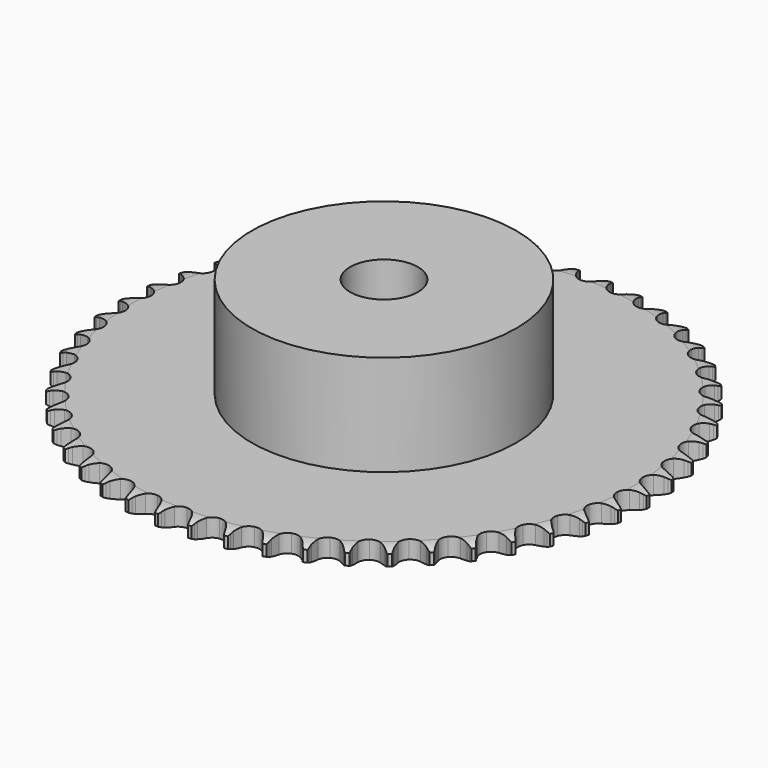
from build123d import *

# Parameters (mm, degrees)
PAD_DEPTH         = 5.3
SKETCH001_R       = 39
PAD001_DEPTH      = 35
SKETCH002_R       = 10
POCKET_DEPTH      = 0.001
POCKET_DEPTH_BACK = 35.001


with BuildPart() as part:
    # Sprocket → Pad (new body)
    with BuildSketch(Plane.XY):
        with BuildLine():
            ThreePointArc((-4.942228, 78.554462), (-4.426125, 77.806882), (-4.050562, 76.979723))
            Line((-4.050562, 76.979723), (-3.741701, 76.098741))
            ThreePointArc((-3.741701, 76.098741), (-3.253306, 74.977651), (-2.605655, 73.940386))
            ThreePointArc((-2.605655, 73.940386), (-1.4609, 72.967845), (0, 72.618462))
            ThreePointArc((0, 72.618462), (1.4609, 72.967845), (2.605655, 73.940386))
            ThreePointArc((2.605655, 73.940386), (3.253306, 74.977651), (3.741701, 76.098741))
            Line((3.741701, 76.098741), (4.050562, 76.979723))
            ThreePointArc((4.050562, 76.979723), (4.426125, 77.806882), (4.942228, 78.554462))
            ThreePointArc((4.942228, 78.554462), (5.360565, 77.748092), (5.629496, 76.880385))
            Line((5.629496, 76.880385), (5.825505, 75.967639))
            ThreePointArc((5.825505, 75.967639), (6.169538, 74.794178), (6.682079, 73.68392))
            ThreePointArc((6.682079, 73.68392), (7.695915, 72.575572), (9.101507, 72.045844))
            ThreePointArc((9.101507, 72.045844), (10.594677, 72.209373), (11.852296, 73.030769))
            Line((11.852296, 73.030769), (13.249898, 75.02972))
            ThreePointArc((13.249898, 75.02972), (13.446578, 75.453242), (13.66674, 75.865045))
            ThreePointArc((13.66674, 75.865045), (14.143012, 76.638611), (14.748742, 77.315611))
            ThreePointArc((14.748742, 77.315611), (15.062715, 76.463168), (15.220773, 75.568598))
            Line((15.220773, 75.568598), (15.300839, 74.638482))
            ThreePointArc((15.300839, 74.638482), (15.495086, 73.431155), (15.864433, 72.265413))
            ThreePointArc((15.864433, 72.265413), (16.731362, 71.038738), (18.059477, 70.33702))
            ThreePointArc((18.059477, 70.33702), (19.561369, 70.312115), (20.91202, 70.969413))
            Line((20.91202, 70.969413), (22.549136, 72.777436))
            ThreePointArc((22.549136, 72.777436), (22.797346, 73.172967), (23.067385, 73.55393))
            ThreePointArc((23.067385, 73.55393), (23.636855, 74.261703), (24.322659, 74.857447))
            ThreePointArc((24.322659, 74.857447), (24.527317, 73.972374), (24.572009, 73.065048))
            Line((24.572009, 73.065048), (24.534869, 72.132232))
            ThreePointArc((24.534869, 72.132232), (24.576267, 70.910079), (24.796595, 69.707238))
            ThreePointArc((24.796595, 69.707238), (25.502945, 68.38158), (26.732639, 67.518939))
            ThreePointArc((26.732639, 67.518939), (28.219566, 67.305994), (29.641948, 67.788827))
            Line((29.641948, 67.788827), (31.492761, 69.377408))
            ThreePointArc((31.492761, 69.377408), (31.788587, 69.738711), (32.104243, 70.082825))
            ThreePointArc((32.104243, 70.082825), (32.75793, 70.713644), (33.512993, 71.218736))
            ThreePointArc((33.512993, 71.218736), (33.605108, 70.314992), (33.53573, 69.409219))
            Line((33.53573, 69.409219), (33.381971, 68.488413))
            ThreePointArc((33.381971, 68.488413), (33.269865, 67.270709), (33.3377, 66.049738))
            ThreePointArc((33.3377, 66.049738), (33.872331, 64.646005), (34.984211, 63.636044))
            ThreePointArc((34.984211, 63.636044), (36.432724, 63.238416), (37.904405, 63.539171))
            Line((37.904405, 63.539171), (39.939726, 64.883257))
            ThreePointArc((39.939726, 64.883257), (40.278503, 65.204634), (40.634799, 65.506473))
            ThreePointArc((40.634799, 65.506473), (41.362394, 66.050388), (42.174808, 66.456863))
            ThreePointArc((42.174808, 66.456863), (42.152927, 65.5487), (41.970573, 64.658765))
            Line((41.970573, 64.658765), (41.702618, 63.764492))
            ThreePointArc((41.702618, 63.764492), (41.438778, 62.57044), (41.35305, 61.350595))
            ThreePointArc((41.35305, 61.350595), (41.70753, 59.890923), (42.684061, 58.74957))
            ThreePointArc((42.684061, 58.74957), (44.071317, 58.173531), (45.569088, 58.287464))
            Line((45.569088, 58.287464), (47.756817, 59.365858))
            ThreePointArc((47.756817, 59.365858), (48.133202, 59.642241), (48.52452, 59.897044))
            ThreePointArc((48.52452, 59.897044), (49.314548, 60.345479), (50.1715, 60.646926))
            ThreePointArc((50.1715, 60.646926), (50.03597, 59.748667), (49.743514, 58.888604))
            Line((49.743514, 58.888604), (49.36559, 58.034966))
            ThreePointArc((49.36559, 58.034966), (48.954176, 56.883397), (48.716237, 55.683915))
            ThreePointArc((48.716237, 55.683915), (48.884977, 54.191325), (49.710758, 52.936581))
            ThreePointArc((49.710758, 52.936581), (51.014878, 52.191215), (52.515118, 52.116529))
            Line((52.515118, 52.116529), (54.820756, 52.912224))
            ThreePointArc((54.820756, 52.912224), (55.228813, 53.139255), (55.648979, 53.343003))
            ThreePointArc((55.648979, 53.343003), (56.488982, 53.688885), (57.376959, 53.88055))
            ThreePointArc((57.376959, 53.88055), (57.129915, 53.006361), (56.731971, 52.189734))
            Line((56.731971, 52.189734), (56.250038, 51.390193))
            ThreePointArc((56.250038, 51.390193), (55.697538, 50.299269), (55.31114, 49.139068))
            ThreePointArc((55.31114, 49.139068), (55.291478, 47.637098), (55.953487, 46.28875))
            ThreePointArc((55.953487, 46.28875), (57.153904, 45.385812), (58.632954, 45.123685))
            Line((58.632954, 45.123685), (61.020138, 45.624133))
            ThreePointArc((61.020138, 45.624133), (61.453432, 45.79823), (61.895822, 45.947711))
            ThreePointArc((61.895822, 45.947711), (62.772551, 46.185585), (63.677548, 46.264446))
            ThreePointArc((63.677548, 46.264446), (63.322887, 45.428113), (62.825731, 44.667801))
            Line((62.825731, 44.667801), (62.247389, 43.934967))
            ThreePointArc((62.247389, 43.934967), (61.562516, 42.921892), (61.033754, 41.819267))
            ThreePointArc((61.033754, 41.819267), (60.826, 40.331606), (61.313796, 38.910918))
            ThreePointArc((61.313796, 38.910918), (62.391579, 37.864648), (63.826113, 37.419213))
            Line((63.826113, 37.419213), (66.257196, 37.616522))
            ThreePointArc((66.257196, 37.616522), (66.708893, 37.73494), (67.16653, 37.827796))
            ThreePointArc((67.16653, 37.827796), (68.066159, 37.953911), (68.973904, 37.918725))
            ThreePointArc((68.973904, 37.918725), (68.517219, 37.133436), (67.928691, 36.44143))
            Line((67.928691, 36.44143), (67.263061, 35.78686))
            ThreePointArc((67.263061, 35.78686), (66.456617, 34.867611), (65.793828, 33.839952))
            ThreePointArc((65.793828, 33.839952), (65.401259, 32.39006), (65.707149, 30.919437))
            ThreePointArc((65.707149, 30.919437), (66.645302, 29.746335), (68.012696, 29.124619))
            Line((68.012696, 29.124619), (70.449338, 29.015676))
            ThreePointArc((70.449338, 29.015676), (70.912316, 29.076547), (71.377982, 29.111314))
            ThreePointArc((71.377982, 29.111314), (72.286324, 29.123682), (73.1825, 28.975002))
            ThreePointArc((73.1825, 28.975002), (72.630994, 28.253144), (71.960375, 27.640356))
            Line((71.960375, 27.640356), (71.217954, 27.074373))
            ThreePointArc((71.217954, 27.074373), (70.302657, 26.263447), (69.516295, 25.326961))
            ThreePointArc((69.516295, 25.326961), (68.945102, 23.937703), (69.064262, 22.440339))
            ThreePointArc((69.064262, 22.440339), (69.847988, 21.158905), (71.126678, 20.370711))
            Line((71.126678, 20.370711), (73.530453, 19.957235))
            ThreePointArc((73.530453, 19.957235), (73.997409, 19.9596), (74.46376, 19.935729))
            ThreePointArc((74.46376, 19.935729), (75.36649, 19.834154), (76.236965, 19.574326))
            ThreePointArc((76.236965, 19.574326), (75.599335, 18.927282), (74.857201, 18.403377))
            Line((74.857201, 18.403377), (74.049698, 17.934907))
            ThreePointArc((74.049698, 17.934907), (73.039982, 17.245092), (72.142448, 16.414548))
            ThreePointArc((72.142448, 16.414548), (71.401639, 15.107835), (71.33219, 13.607343))
            ThreePointArc((71.33219, 13.607343), (71.94913, 12.237787), (73.11895, 11.295545))
            Line((73.11895, 11.295545), (75.451948, 10.584057))
            ThreePointArc((75.451948, 10.584057), (75.915518, 10.527878), (76.3752, 10.445746))
            ThreePointArc((76.3752, 10.445746), (77.258081, 10.23183), (78.089128, 9.864951))
            ThreePointArc((78.089128, 9.864951), (77.375429, 9.302925), (76.573485, 8.876166))
            Line((76.573485, 8.876166), (75.713634, 8.512597))
            ThreePointArc((75.713634, 8.512597), (74.625423, 7.954772), (73.630872, 7.243268))
            ThreePointArc((73.630872, 7.243268), (72.732129, 6.039707), (72.475166, 4.559751))
            ThreePointArc((72.475166, 4.559751), (72.915591, 3.123671), (73.958092, 2.042242))
            Line((73.958092, 2.042242), (76.183521, 1.043962))
            ThreePointArc((76.183521, 1.043962), (76.636395, 0.930126), (77.082158, 0.791028))
            ThreePointArc((77.082158, 0.791028), (77.931266, 0.468144), (78.709778, 0))
            ThreePointArc((78.709778, 0), (77.931266, -0.468144), (77.082158, -0.791028))
            Line((77.082158, -0.791028), (76.183521, -1.043962))
            ThreePointArc((76.183521, -1.043962), (75.033977, -1.460999), (73.958092, -2.042242))
            ThreePointArc((73.958092, -2.042242), (72.915591, -3.123671), (72.475166, -4.559751))
            ThreePointArc((72.475166, -4.559751), (72.732129, -6.039707), (73.630872, -7.243268))
            Line((73.630872, -7.243268), (75.713634, -8.512597))
            ThreePointArc((75.713634, -8.512597), (76.14867, -8.682296), (76.573485, -8.876166))
            ThreePointArc((76.573485, -8.876166), (77.375429, -9.302925), (78.089128, -9.864951))
            ThreePointArc((78.089128, -9.864951), (77.258081, -10.23183), (76.3752, -10.445746))
            Line((76.3752, -10.445746), (75.451948, -10.584057))
            ThreePointArc((75.451948, -10.584057), (74.2592, -10.853729), (73.11895, -11.295545))
            ThreePointArc((73.11895, -11.295545), (71.94913, -12.237787), (71.33219, -13.607343))
            ThreePointArc((71.33219, -13.607343), (71.401639, -15.107835), (72.142448, -16.414548))
            Line((72.142448, -16.414548), (74.049698, -17.934907))
            ThreePointArc((74.049698, -17.934907), (74.460034, -18.157792), (74.857201, -18.403377))
            ThreePointArc((74.857201, -18.403377), (75.599335, -18.927282), (76.236965, -19.574326))
            ThreePointArc((76.236965, -19.574326), (75.36649, -19.834154), (74.46376, -19.935729))
            Line((74.46376, -19.935729), (73.530453, -19.957235))
            ThreePointArc((73.530453, -19.957235), (72.313311, -20.07529), (71.126678, -20.370711))
            ThreePointArc((71.126678, -20.370711), (69.847988, -21.158905), (69.064262, -22.440339))
            ThreePointArc((69.064262, -22.440339), (68.945102, -23.937703), (69.516295, -25.326961))
            Line((69.516295, -25.326961), (71.217954, -27.074373))
            ThreePointArc((71.217954, -27.074373), (71.59712, -27.34693), (71.960375, -27.640356))
            ThreePointArc((71.960375, -27.640356), (72.630994, -28.253144), (73.1825, -28.975002))
            ThreePointArc((73.1825, -28.975002), (72.286324, -29.123682), (71.377982, -29.111314))
            Line((71.377982, -29.111314), (70.449338, -29.015676))
            ThreePointArc((70.449338, -29.015676), (69.226998, -28.980252), (68.012696, -29.124619))
            ThreePointArc((68.012696, -29.124619), (66.645302, -29.746335), (65.707149, -30.919437))
            ThreePointArc((65.707149, -30.919437), (65.401259, -32.39006), (65.793828, -33.839952))
            Line((65.793828, -33.839952), (67.263061, -35.78686))
            ThreePointArc((67.263061, -35.78686), (67.605076, -36.104789), (67.928691, -36.44143))
            ThreePointArc((67.928691, -36.44143), (68.517219, -37.133436), (68.973904, -37.918725))
            ThreePointArc((68.973904, -37.918725), (68.066159, -37.953911), (67.16653, -37.827796))
            Line((67.16653, -37.827796), (66.257196, -37.616522))
            ThreePointArc((66.257196, -37.616522), (65.048934, -37.428177), (63.826113, -37.419213))
            ThreePointArc((63.826113, -37.419213), (62.391579, -37.864648), (61.313796, -38.910918))
            ThreePointArc((61.313796, -38.910918), (60.826, -40.331606), (61.033754, -41.819267))
            Line((61.033754, -41.819267), (62.247389, -43.934967))
            ThreePointArc((62.247389, -43.934967), (62.54686, -44.293255), (62.825731, -44.667801))
            ThreePointArc((62.825731, -44.667801), (63.322887, -45.428113), (63.677548, -46.264446))
            ThreePointArc((63.677548, -46.264446), (62.772551, -46.185585), (61.895822, -45.947711))
            Line((61.895822, -45.947711), (61.020138, -45.624133))
            ThreePointArc((61.020138, -45.624133), (59.845009, -45.285838), (58.632954, -45.123685))
            ThreePointArc((58.632954, -45.123685), (57.153904, -45.385812), (55.953487, -46.28875))
            ThreePointArc((55.953487, -46.28875), (55.291478, -47.637098), (55.31114, -49.139068))
            Line((55.31114, -49.139068), (56.250038, -51.390193))
            ThreePointArc((56.250038, -51.390193), (56.502242, -51.78319), (56.731971, -52.189734))
            ThreePointArc((56.731971, -52.189734), (57.129915, -53.006361), (57.376959, -53.88055))
            ThreePointArc((57.376959, -53.88055), (56.488982, -53.688885), (55.648979, -53.343003))
            Line((55.648979, -53.343003), (54.820756, -52.912224))
            ThreePointArc((54.820756, -52.912224), (53.697293, -52.429314), (52.515118, -52.116529))
            ThreePointArc((52.515118, -52.116529), (51.014878, -52.191215), (49.710758, -52.936581))
            ThreePointArc((49.710758, -52.936581), (48.884977, -54.191325), (48.716237, -55.683915))
            Line((48.716237, -55.683915), (49.36559, -58.034966))
            ThreePointArc((49.36559, -58.034966), (49.566551, -58.456473), (49.743514, -58.888604))
            ThreePointArc((49.743514, -58.888604), (50.03597, -59.748667), (50.1715, -60.646926))
            ThreePointArc((50.1715, -60.646926), (49.314548, -60.345479), (48.52452, -59.897044))
            Line((48.52452, -59.897044), (47.756817, -59.365858))
            ThreePointArc((47.756817, -59.365858), (46.702738, -58.745949), (45.569088, -58.287464))
            ThreePointArc((45.569088, -58.287464), (44.071317, -58.173531), (42.684061, -58.74957))
            ThreePointArc((42.684061, -58.74957), (41.70753, -59.890923), (41.35305, -61.350595))
            Line((41.35305, -61.350595), (41.702618, -63.764492))
            ThreePointArc((41.702618, -63.764492), (41.849165, -64.207862), (41.970573, -64.658765))
            ThreePointArc((41.970573, -64.658765), (42.152927, -65.5487), (42.174808, -66.456863))
            ThreePointArc((42.174808, -66.456863), (41.362394, -66.050388), (40.634799, -65.506473))
            Line((40.634799, -65.506473), (39.939726, -64.883257))
            ThreePointArc((39.939726, -64.883257), (38.971653, -64.136124), (37.904405, -63.539171))
            ThreePointArc((37.904405, -63.539171), (36.432724, -63.238416), (34.984211, -63.636044))
            ThreePointArc((34.984211, -63.636044), (33.872331, -64.646005), (33.3377, -66.049738))
            Line((33.3377, -66.049738), (33.381971, -68.488413))
            ThreePointArc((33.381971, -68.488413), (33.471793, -68.946655), (33.53573, -69.409219))
            ThreePointArc((33.53573, -69.409219), (33.605108, -70.314992), (33.512993, -71.218736))
            ThreePointArc((33.512993, -71.218736), (32.75793, -70.713644), (32.104243, -70.082825))
            Line((32.104243, -70.082825), (31.492761, -69.377408))
            ThreePointArc((31.492761, -69.377408), (30.625962, -68.514835), (29.641948, -67.788827))
            ThreePointArc((29.641948, -67.788827), (28.219566, -67.305994), (26.732639, -67.518939))
            ThreePointArc((26.732639, -67.518939), (25.502945, -68.38158), (24.796595, -69.707238))
            Line((24.796595, -69.707238), (24.534869, -72.132232))
            ThreePointArc((24.534869, -72.132232), (24.56655, -72.598118), (24.572009, -73.065048))
            ThreePointArc((24.572009, -73.065048), (24.527317, -73.972374), (24.322659, -74.857447))
            ThreePointArc((24.322659, -74.857447), (23.636855, -74.261703), (23.067385, -73.55393))
            Line((23.067385, -73.55393), (22.549136, -72.777436))
            ThreePointArc((22.549136, -72.777436), (21.797282, -71.813026), (20.91202, -70.969413))
            ThreePointArc((20.91202, -70.969413), (19.561369, -70.312115), (18.059477, -70.33702))
            ThreePointArc((18.059477, -70.33702), (16.731362, -71.038738), (15.864433, -72.265413))
            Line((15.864433, -72.265413), (15.300839, -74.638482))
            ThreePointArc((15.300839, -74.638482), (15.273879, -75.104665), (15.220773, -75.568598))
            ThreePointArc((15.220773, -75.568598), (15.062715, -76.463168), (14.748742, -77.315611))
            ThreePointArc((14.748742, -77.315611), (14.143012, -76.638611), (13.66674, -75.865045))
            Line((13.66674, -75.865045), (13.249898, -75.02972))
            ThreePointArc((13.249898, -75.02972), (12.624845, -73.978683), (11.852296, -73.030769))
            ThreePointArc((11.852296, -73.030769), (10.594677, -72.209373), (9.101507, -72.045844))
            ThreePointArc((9.101507, -72.045844), (7.695915, -72.575572), (6.682079, -73.68392))
            Line((6.682079, -73.68392), (5.825505, -75.967639))
            ThreePointArc((5.825505, -75.967639), (5.740329, -76.426767), (5.629496, -76.880385))
            ThreePointArc((5.629496, -76.880385), (5.360565, -77.748092), (4.942228, -78.554462))
            ThreePointArc((4.942228, -78.554462), (4.426125, -77.806882), (4.050562, -76.979723))
            Line((4.050562, -76.979723), (3.741701, -76.098741))
            ThreePointArc((3.741701, -76.098741), (3.253306, -74.977651), (2.605655, -73.940386))
            ThreePointArc((2.605655, -73.940386), (1.4609, -72.967845), (0, -72.618462))
            ThreePointArc((0, -72.618462), (-1.4609, -72.967845), (-2.605655, -73.940386))
            Line((-2.605655, -73.940386), (-3.741701, -76.098741))
            ThreePointArc((-3.741701, -76.098741), (-3.883749, -76.543573), (-4.050562, -76.979723))
            ThreePointArc((-4.050562, -76.979723), (-4.426125, -77.806882), (-4.942228, -78.554462))
            ThreePointArc((-4.942228, -78.554462), (-5.360565, -77.748092), (-5.629496, -76.880385))
            Line((-5.629496, -76.880385), (-5.825505, -75.967639))
            ThreePointArc((-5.825505, -75.967639), (-6.169538, -74.794178), (-6.682079, -73.68392))
            ThreePointArc((-6.682079, -73.68392), (-7.695915, -72.575572), (-9.101507, -72.045844))
            ThreePointArc((-9.101507, -72.045844), (-10.594677, -72.209373), (-11.852296, -73.030769))
            Line((-11.852296, -73.030769), (-13.249898, -75.02972))
            ThreePointArc((-13.249898, -75.02972), (-13.446578, -75.453242), (-13.66674, -75.865045))
            ThreePointArc((-13.66674, -75.865045), (-14.143012, -76.638611), (-14.748742, -77.315611))
            ThreePointArc((-14.748742, -77.315611), (-15.062715, -76.463168), (-15.220773, -75.568598))
            Line((-15.220773, -75.568598), (-15.300839, -74.638482))
            ThreePointArc((-15.300839, -74.638482), (-15.495086, -73.431155), (-15.864433, -72.265413))
            ThreePointArc((-15.864433, -72.265413), (-16.731362, -71.038738), (-18.059477, -70.33702))
            ThreePointArc((-18.059477, -70.33702), (-19.561369, -70.312115), (-20.91202, -70.969413))
            Line((-20.91202, -70.969413), (-22.549136, -72.777436))
            ThreePointArc((-22.549136, -72.777436), (-22.797346, -73.172967), (-23.067385, -73.55393))
            ThreePointArc((-23.067385, -73.55393), (-23.636855, -74.261703), (-24.322659, -74.857447))
            ThreePointArc((-24.322659, -74.857447), (-24.527317, -73.972374), (-24.572009, -73.065048))
            Line((-24.572009, -73.065048), (-24.534869, -72.132232))
            ThreePointArc((-24.534869, -72.132232), (-24.576267, -70.910079), (-24.796595, -69.707238))
            ThreePointArc((-24.796595, -69.707238), (-25.502945, -68.38158), (-26.732639, -67.518939))
            ThreePointArc((-26.732639, -67.518939), (-28.219566, -67.305994), (-29.641948, -67.788827))
            Line((-29.641948, -67.788827), (-31.492761, -69.377408))
            ThreePointArc((-31.492761, -69.377408), (-31.788587, -69.738711), (-32.104243, -70.082825))
            ThreePointArc((-32.104243, -70.082825), (-32.75793, -70.713644), (-33.512993, -71.218736))
            ThreePointArc((-33.512993, -71.218736), (-33.605108, -70.314992), (-33.53573, -69.409219))
            Line((-33.53573, -69.409219), (-33.381971, -68.488413))
            ThreePointArc((-33.381971, -68.488413), (-33.269865, -67.270709), (-33.3377, -66.049738))
            ThreePointArc((-33.3377, -66.049738), (-33.872331, -64.646005), (-34.984211, -63.636044))
            ThreePointArc((-34.984211, -63.636044), (-36.432724, -63.238416), (-37.904405, -63.539171))
            Line((-37.904405, -63.539171), (-39.939726, -64.883257))
            ThreePointArc((-39.939726, -64.883257), (-40.278503, -65.204634), (-40.634799, -65.506473))
            ThreePointArc((-40.634799, -65.506473), (-41.362394, -66.050388), (-42.174808, -66.456863))
            ThreePointArc((-42.174808, -66.456863), (-42.152927, -65.5487), (-41.970573, -64.658765))
            Line((-41.970573, -64.658765), (-41.702618, -63.764492))
            ThreePointArc((-41.702618, -63.764492), (-41.438778, -62.57044), (-41.35305, -61.350595))
            ThreePointArc((-41.35305, -61.350595), (-41.70753, -59.890923), (-42.684061, -58.74957))
            ThreePointArc((-42.684061, -58.74957), (-44.071317, -58.173531), (-45.569088, -58.287464))
            Line((-45.569088, -58.287464), (-47.756817, -59.365858))
            ThreePointArc((-47.756817, -59.365858), (-48.133202, -59.642241), (-48.52452, -59.897044))
            ThreePointArc((-48.52452, -59.897044), (-49.314548, -60.345479), (-50.1715, -60.646926))
            ThreePointArc((-50.1715, -60.646926), (-50.03597, -59.748667), (-49.743514, -58.888604))
            Line((-49.743514, -58.888604), (-49.36559, -58.034966))
            ThreePointArc((-49.36559, -58.034966), (-48.954176, -56.883397), (-48.716237, -55.683915))
            ThreePointArc((-48.716237, -55.683915), (-48.884977, -54.191325), (-49.710758, -52.936581))
            ThreePointArc((-49.710758, -52.936581), (-51.014878, -52.191215), (-52.515118, -52.116529))
            Line((-52.515118, -52.116529), (-54.820756, -52.912224))
            ThreePointArc((-54.820756, -52.912224), (-55.228813, -53.139255), (-55.648979, -53.343003))
            ThreePointArc((-55.648979, -53.343003), (-56.488982, -53.688885), (-57.376959, -53.88055))
            ThreePointArc((-57.376959, -53.88055), (-57.129915, -53.006361), (-56.731971, -52.189734))
            Line((-56.731971, -52.189734), (-56.250038, -51.390193))
            ThreePointArc((-56.250038, -51.390193), (-55.697538, -50.299269), (-55.31114, -49.139068))
            ThreePointArc((-55.31114, -49.139068), (-55.291478, -47.637098), (-55.953487, -46.28875))
            ThreePointArc((-55.953487, -46.28875), (-57.153904, -45.385812), (-58.632954, -45.123685))
            Line((-58.632954, -45.123685), (-61.020138, -45.624133))
            ThreePointArc((-61.020138, -45.624133), (-61.453432, -45.79823), (-61.895822, -45.947711))
            ThreePointArc((-61.895822, -45.947711), (-62.772551, -46.185585), (-63.677548, -46.264446))
            ThreePointArc((-63.677548, -46.264446), (-63.322887, -45.428113), (-62.825731, -44.667801))
            Line((-62.825731, -44.667801), (-62.247389, -43.934967))
            ThreePointArc((-62.247389, -43.934967), (-61.562516, -42.921892), (-61.033754, -41.819267))
            ThreePointArc((-61.033754, -41.819267), (-60.826, -40.331606), (-61.313796, -38.910918))
            ThreePointArc((-61.313796, -38.910918), (-62.391579, -37.864648), (-63.826113, -37.419213))
            Line((-63.826113, -37.419213), (-66.257196, -37.616522))
            ThreePointArc((-66.257196, -37.616522), (-66.708893, -37.73494), (-67.16653, -37.827796))
            ThreePointArc((-67.16653, -37.827796), (-68.066159, -37.953911), (-68.973904, -37.918725))
            ThreePointArc((-68.973904, -37.918725), (-68.517219, -37.133436), (-67.928691, -36.44143))
            Line((-67.928691, -36.44143), (-67.263061, -35.78686))
            ThreePointArc((-67.263061, -35.78686), (-66.456617, -34.867611), (-65.793828, -33.839952))
            ThreePointArc((-65.793828, -33.839952), (-65.401259, -32.39006), (-65.707149, -30.919437))
            ThreePointArc((-65.707149, -30.919437), (-66.645302, -29.746335), (-68.012696, -29.124619))
            Line((-68.012696, -29.124619), (-70.449338, -29.015676))
            ThreePointArc((-70.449338, -29.015676), (-70.912316, -29.076547), (-71.377982, -29.111314))
            ThreePointArc((-71.377982, -29.111314), (-72.286324, -29.123682), (-73.1825, -28.975002))
            ThreePointArc((-73.1825, -28.975002), (-72.630994, -28.253144), (-71.960375, -27.640356))
            Line((-71.960375, -27.640356), (-71.217954, -27.074373))
            ThreePointArc((-71.217954, -27.074373), (-70.302657, -26.263447), (-69.516295, -25.326961))
            ThreePointArc((-69.516295, -25.326961), (-68.945102, -23.937703), (-69.064262, -22.440339))
            ThreePointArc((-69.064262, -22.440339), (-69.847988, -21.158905), (-71.126678, -20.370711))
            Line((-71.126678, -20.370711), (-73.530453, -19.957235))
            ThreePointArc((-73.530453, -19.957235), (-73.997409, -19.9596), (-74.46376, -19.935729))
            ThreePointArc((-74.46376, -19.935729), (-75.36649, -19.834154), (-76.236965, -19.574326))
            ThreePointArc((-76.236965, -19.574326), (-75.599335, -18.927282), (-74.857201, -18.403377))
            Line((-74.857201, -18.403377), (-74.049698, -17.934907))
            ThreePointArc((-74.049698, -17.934907), (-73.039982, -17.245092), (-72.142448, -16.414548))
            ThreePointArc((-72.142448, -16.414548), (-71.401639, -15.107835), (-71.33219, -13.607343))
            ThreePointArc((-71.33219, -13.607343), (-71.94913, -12.237787), (-73.11895, -11.295545))
            Line((-73.11895, -11.295545), (-75.451948, -10.584057))
            ThreePointArc((-75.451948, -10.584057), (-75.915518, -10.527878), (-76.3752, -10.445746))
            ThreePointArc((-76.3752, -10.445746), (-77.258081, -10.23183), (-78.089128, -9.864951))
            ThreePointArc((-78.089128, -9.864951), (-77.375429, -9.302925), (-76.573485, -8.876166))
            Line((-76.573485, -8.876166), (-75.713634, -8.512597))
            ThreePointArc((-75.713634, -8.512597), (-74.625423, -7.954772), (-73.630872, -7.243268))
            ThreePointArc((-73.630872, -7.243268), (-72.732129, -6.039707), (-72.475166, -4.559751))
            ThreePointArc((-72.475166, -4.559751), (-72.915591, -3.123671), (-73.958092, -2.042242))
            Line((-73.958092, -2.042242), (-76.183521, -1.043962))
            ThreePointArc((-76.183521, -1.043962), (-76.636395, -0.930126), (-77.082158, -0.791028))
            ThreePointArc((-77.082158, -0.791028), (-77.931266, -0.468144), (-78.709778, 0))
            ThreePointArc((-78.709778, 0), (-77.931266, 0.468144), (-77.082158, 0.791028))
            Line((-77.082158, 0.791028), (-76.183521, 1.043962))
            ThreePointArc((-76.183521, 1.043962), (-75.033977, 1.460999), (-73.958092, 2.042242))
            ThreePointArc((-73.958092, 2.042242), (-72.915591, 3.123671), (-72.475166, 4.559751))
            ThreePointArc((-72.475166, 4.559751), (-72.732129, 6.039707), (-73.630872, 7.243268))
            Line((-73.630872, 7.243268), (-75.713634, 8.512597))
            ThreePointArc((-75.713634, 8.512597), (-76.14867, 8.682296), (-76.573485, 8.876166))
            ThreePointArc((-76.573485, 8.876166), (-77.375429, 9.302925), (-78.089128, 9.864951))
            ThreePointArc((-78.089128, 9.864951), (-77.258081, 10.23183), (-76.3752, 10.445746))
            Line((-76.3752, 10.445746), (-75.451948, 10.584057))
            ThreePointArc((-75.451948, 10.584057), (-74.2592, 10.853729), (-73.11895, 11.295545))
            ThreePointArc((-73.11895, 11.295545), (-71.94913, 12.237787), (-71.33219, 13.607343))
            ThreePointArc((-71.33219, 13.607343), (-71.401639, 15.107835), (-72.142448, 16.414548))
            Line((-72.142448, 16.414548), (-74.049698, 17.934907))
            ThreePointArc((-74.049698, 17.934907), (-74.460034, 18.157792), (-74.857201, 18.403377))
            ThreePointArc((-74.857201, 18.403377), (-75.599335, 18.927282), (-76.236965, 19.574326))
            ThreePointArc((-76.236965, 19.574326), (-75.36649, 19.834154), (-74.46376, 19.935729))
            Line((-74.46376, 19.935729), (-73.530453, 19.957235))
            ThreePointArc((-73.530453, 19.957235), (-72.313311, 20.07529), (-71.126678, 20.370711))
            ThreePointArc((-71.126678, 20.370711), (-69.847988, 21.158905), (-69.064262, 22.440339))
            ThreePointArc((-69.064262, 22.440339), (-68.945102, 23.937703), (-69.516295, 25.326961))
            Line((-69.516295, 25.326961), (-71.217954, 27.074373))
            ThreePointArc((-71.217954, 27.074373), (-71.59712, 27.34693), (-71.960375, 27.640356))
            ThreePointArc((-71.960375, 27.640356), (-72.630994, 28.253144), (-73.1825, 28.975002))
            ThreePointArc((-73.1825, 28.975002), (-72.286324, 29.123682), (-71.377982, 29.111314))
            Line((-71.377982, 29.111314), (-70.449338, 29.015676))
            ThreePointArc((-70.449338, 29.015676), (-69.226998, 28.980252), (-68.012696, 29.124619))
            ThreePointArc((-68.012696, 29.124619), (-66.645302, 29.746335), (-65.707149, 30.919437))
            ThreePointArc((-65.707149, 30.919437), (-65.401259, 32.39006), (-65.793828, 33.839952))
            Line((-65.793828, 33.839952), (-67.263061, 35.78686))
            ThreePointArc((-67.263061, 35.78686), (-67.605076, 36.104789), (-67.928691, 36.44143))
            ThreePointArc((-67.928691, 36.44143), (-68.517219, 37.133436), (-68.973904, 37.918725))
            ThreePointArc((-68.973904, 37.918725), (-68.066159, 37.953911), (-67.16653, 37.827796))
            Line((-67.16653, 37.827796), (-66.257196, 37.616522))
            ThreePointArc((-66.257196, 37.616522), (-65.048934, 37.428177), (-63.826113, 37.419213))
            ThreePointArc((-63.826113, 37.419213), (-62.391579, 37.864648), (-61.313796, 38.910918))
            ThreePointArc((-61.313796, 38.910918), (-60.826, 40.331606), (-61.033754, 41.819267))
            Line((-61.033754, 41.819267), (-62.247389, 43.934967))
            ThreePointArc((-62.247389, 43.934967), (-62.54686, 44.293255), (-62.825731, 44.667801))
            ThreePointArc((-62.825731, 44.667801), (-63.322887, 45.428113), (-63.677548, 46.264446))
            ThreePointArc((-63.677548, 46.264446), (-62.772551, 46.185585), (-61.895822, 45.947711))
            Line((-61.895822, 45.947711), (-61.020138, 45.624133))
            ThreePointArc((-61.020138, 45.624133), (-59.845009, 45.285838), (-58.632954, 45.123685))
            ThreePointArc((-58.632954, 45.123685), (-57.153904, 45.385812), (-55.953487, 46.28875))
            ThreePointArc((-55.953487, 46.28875), (-55.291478, 47.637098), (-55.31114, 49.139068))
            Line((-55.31114, 49.139068), (-56.250038, 51.390193))
            ThreePointArc((-56.250038, 51.390193), (-56.502242, 51.78319), (-56.731971, 52.189734))
            ThreePointArc((-56.731971, 52.189734), (-57.129915, 53.006361), (-57.376959, 53.88055))
            ThreePointArc((-57.376959, 53.88055), (-56.488982, 53.688885), (-55.648979, 53.343003))
            Line((-55.648979, 53.343003), (-54.820756, 52.912224))
            ThreePointArc((-54.820756, 52.912224), (-53.697293, 52.429314), (-52.515118, 52.116529))
            ThreePointArc((-52.515118, 52.116529), (-51.014878, 52.191215), (-49.710758, 52.936581))
            ThreePointArc((-49.710758, 52.936581), (-48.884977, 54.191325), (-48.716237, 55.683915))
            Line((-48.716237, 55.683915), (-49.36559, 58.034966))
            ThreePointArc((-49.36559, 58.034966), (-49.566551, 58.456473), (-49.743514, 58.888604))
            ThreePointArc((-49.743514, 58.888604), (-50.03597, 59.748667), (-50.1715, 60.646926))
            ThreePointArc((-50.1715, 60.646926), (-49.314548, 60.345479), (-48.52452, 59.897044))
            Line((-48.52452, 59.897044), (-47.756817, 59.365858))
            ThreePointArc((-47.756817, 59.365858), (-46.702738, 58.745949), (-45.569088, 58.287464))
            ThreePointArc((-45.569088, 58.287464), (-44.071317, 58.173531), (-42.684061, 58.74957))
            ThreePointArc((-42.684061, 58.74957), (-41.70753, 59.890923), (-41.35305, 61.350595))
            Line((-41.35305, 61.350595), (-41.702618, 63.764492))
            ThreePointArc((-41.702618, 63.764492), (-41.849165, 64.207862), (-41.970573, 64.658765))
            ThreePointArc((-41.970573, 64.658765), (-42.152927, 65.5487), (-42.174808, 66.456863))
            ThreePointArc((-42.174808, 66.456863), (-41.362394, 66.050388), (-40.634799, 65.506473))
            Line((-40.634799, 65.506473), (-39.939726, 64.883257))
            ThreePointArc((-39.939726, 64.883257), (-38.971653, 64.136124), (-37.904405, 63.539171))
            ThreePointArc((-37.904405, 63.539171), (-36.432724, 63.238416), (-34.984211, 63.636044))
            ThreePointArc((-34.984211, 63.636044), (-33.872331, 64.646005), (-33.3377, 66.049738))
            Line((-33.3377, 66.049738), (-33.381971, 68.488413))
            ThreePointArc((-33.381971, 68.488413), (-33.471793, 68.946655), (-33.53573, 69.409219))
            ThreePointArc((-33.53573, 69.409219), (-33.605108, 70.314992), (-33.512993, 71.218736))
            ThreePointArc((-33.512993, 71.218736), (-32.75793, 70.713644), (-32.104243, 70.082825))
            Line((-32.104243, 70.082825), (-31.492761, 69.377408))
            ThreePointArc((-31.492761, 69.377408), (-30.625962, 68.514835), (-29.641948, 67.788827))
            ThreePointArc((-29.641948, 67.788827), (-28.219566, 67.305994), (-26.732639, 67.518939))
            ThreePointArc((-26.732639, 67.518939), (-25.502945, 68.38158), (-24.796595, 69.707238))
            Line((-24.796595, 69.707238), (-24.534869, 72.132232))
            ThreePointArc((-24.534869, 72.132232), (-24.56655, 72.598118), (-24.572009, 73.065048))
            ThreePointArc((-24.572009, 73.065048), (-24.527317, 73.972374), (-24.322659, 74.857447))
            ThreePointArc((-24.322659, 74.857447), (-23.636855, 74.261703), (-23.067385, 73.55393))
            Line((-23.067385, 73.55393), (-22.549136, 72.777436))
            ThreePointArc((-22.549136, 72.777436), (-21.797282, 71.813026), (-20.91202, 70.969413))
            ThreePointArc((-20.91202, 70.969413), (-19.561369, 70.312115), (-18.059477, 70.33702))
            ThreePointArc((-18.059477, 70.33702), (-16.731362, 71.038738), (-15.864433, 72.265413))
            Line((-15.864433, 72.265413), (-15.300839, 74.638482))
            ThreePointArc((-15.300839, 74.638482), (-15.273879, 75.104665), (-15.220773, 75.568598))
            ThreePointArc((-15.220773, 75.568598), (-15.062715, 76.463168), (-14.748742, 77.315611))
            ThreePointArc((-14.748742, 77.315611), (-14.143012, 76.638611), (-13.66674, 75.865045))
            Line((-13.66674, 75.865045), (-13.249898, 75.02972))
            ThreePointArc((-13.249898, 75.02972), (-12.624845, 73.978683), (-11.852296, 73.030769))
            ThreePointArc((-11.852296, 73.030769), (-10.594677, 72.209373), (-9.101507, 72.045844))
            ThreePointArc((-9.101507, 72.045844), (-7.695915, 72.575572), (-6.682079, 73.68392))
            Line((-6.682079, 73.68392), (-5.825505, 75.967639))
            ThreePointArc((-5.825505, 75.967639), (-5.740329, 76.426767), (-5.629496, 76.880385))
            ThreePointArc((-5.629496, 76.880385), (-5.360565, 77.748092), (-4.942228, 78.554462))
        make_face()
    extrude(amount=PAD_DEPTH)

    # Sketch → Groove (revolve, cut)
    with BuildSketch(Plane.XZ):
        with BuildLine():
            Line((73.491101, 0), (77.85, 0))
            Line((82.208899, 0), (77.85, 0))
            Line((82.208899, 5.3), (82.208899, 0))
            Line((77.85, 5.3), (82.208899, 5.3))
            Line((73.491101, 5.3), (77.85, 5.3))
            ThreePointArc((77.85, 4.3), (75.727169, 5.046794), (73.491101, 5.3))
            Line((77.85, 1), (77.85, 4.3))
            ThreePointArc((73.491101, 0), (75.727169, 0.253206), (77.85, 1))
        make_face()
    revolve(axis=Axis((0, 0, 0), (0, 0, 1)), mode=Mode.SUBTRACT)

    # Sketch001 → Pad001 (join)
    with BuildSketch(Plane.XY):
        Circle(SKETCH001_R)
    extrude(amount=PAD001_DEPTH)

    # Sketch002 → Pocket (cut, two sides)
    with BuildSketch(Plane.XY) as pocket_sk:
        Circle(SKETCH002_R)
    extrude(amount=-POCKET_DEPTH, mode=Mode.SUBTRACT)
    extrude(pocket_sk.sketch, amount=POCKET_DEPTH_BACK, mode=Mode.SUBTRACT)


solid = part.part
